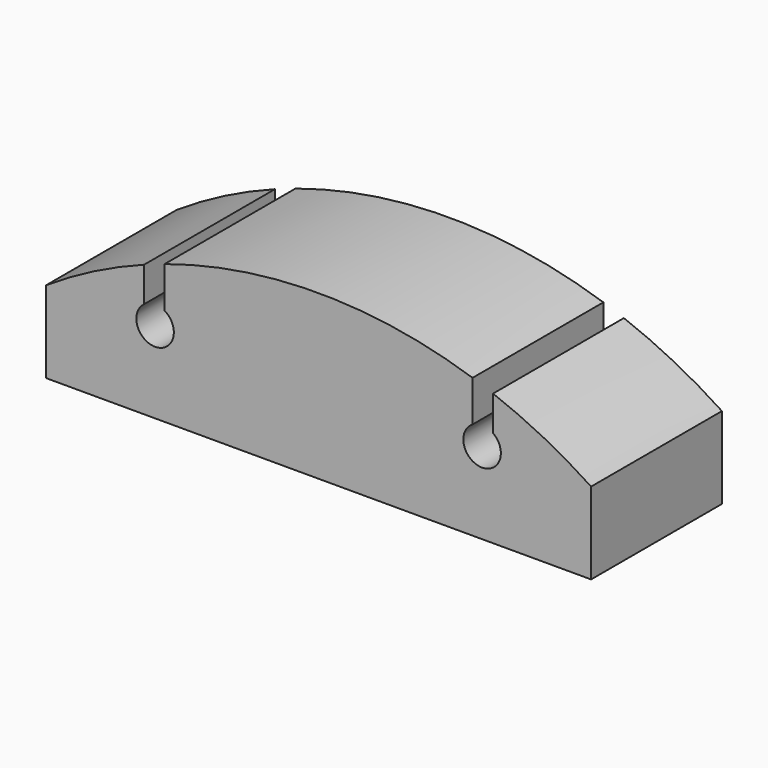
from build123d import *

# Parameters (mm, degrees)
F1_DEPTH = 38.1


with BuildPart() as f1:
    # F0 (on Front) → F1 (new body)
    with BuildSketch(Plane.XZ):
        with BuildLine():
            Line((-63.5, -9.525), (63.5, -9.525))
            Line((63.5, -9.525), (63.5, 9.525))
            ThreePointArc((63.5, 9.525), (52.401686, 15.986353), (40.653953, 21.174071))
            Line((40.653953, 21.174071), (40.653953, 13.069536))
            ThreePointArc((40.653953, 13.069536), (37.901271, 5.160722), (35.878753, 13.286977))
            Line((35.878753, 13.286977), (35.878753, 22.853614))
            ThreePointArc((35.878753, 22.853614), (0, 28.575), (-35.878753, 22.853614))
            Line((-35.878753, 22.853614), (-35.878753, 13.286977))
            ThreePointArc((-35.878753, 13.286977), (-37.901271, 5.160722), (-40.653953, 13.069536))
            Line((-40.653953, 13.069536), (-40.653953, 21.174071))
            ThreePointArc((-40.653953, 21.174071), (-52.401686, 15.986353), (-63.5, 9.525))
            Line((-63.5, 9.525), (-63.5, -9.525))
        make_face()
    extrude(amount=-F1_DEPTH)


solid = f1.part
